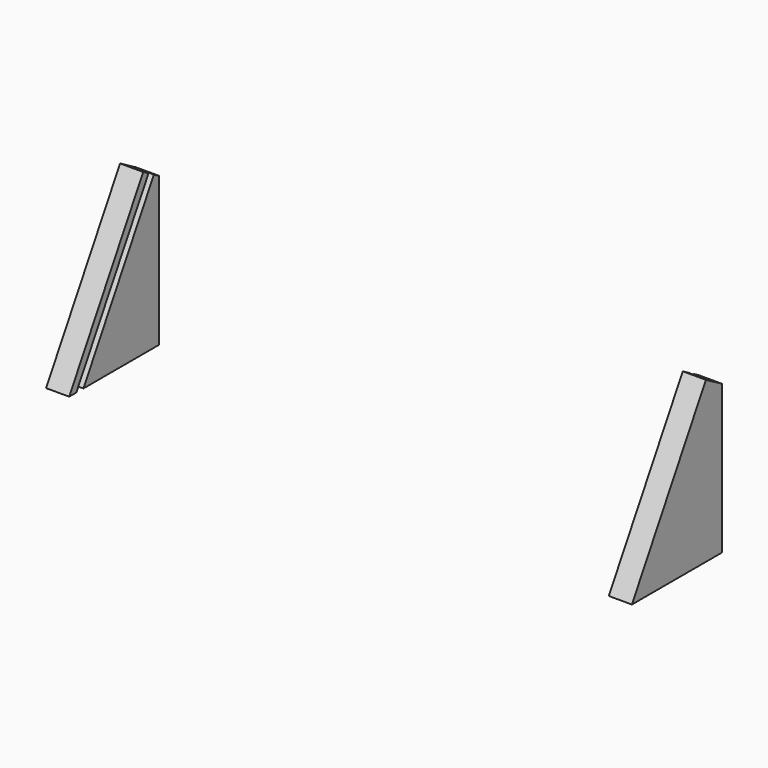
from build123d import *

# Parameters (mm, degrees)
F1_DEPTH = 19.05
F5_W     = 6.35
F5_H     = 6.35
F6_DEPTH = 152.4


with BuildPart() as f1:
    # F0 (on Right) → F1 (new body)
    with BuildSketch(Plane.YZ):
        Polygon((-92.6977839421, 0), (0, 0), (0, 122.4572715367), (-16.4977839421, 131.9822715367), align=None)
    extrude(amount=F1_DEPTH)

    # F5 (on offset) → F6 (cut)
    with BuildSketch(Plane(origin=(0, 53.0255540145, 91.8429536526), x_dir=(1, 0, 0), z_dir=(0, 0.5, 0.8660254038))):
        with Locations((15.875, -70.7536357684)):
            Rectangle(F5_W, F5_H)
    extrude(amount=-F6_DEPTH, mode=Mode.SUBTRACT)


with BuildPart() as f8_1:
    # F8: instance of F1
    add(f1.part.mirror(Plane.YZ.offset(241.3)))


solid = Compound([f1.part, f8_1.part])
